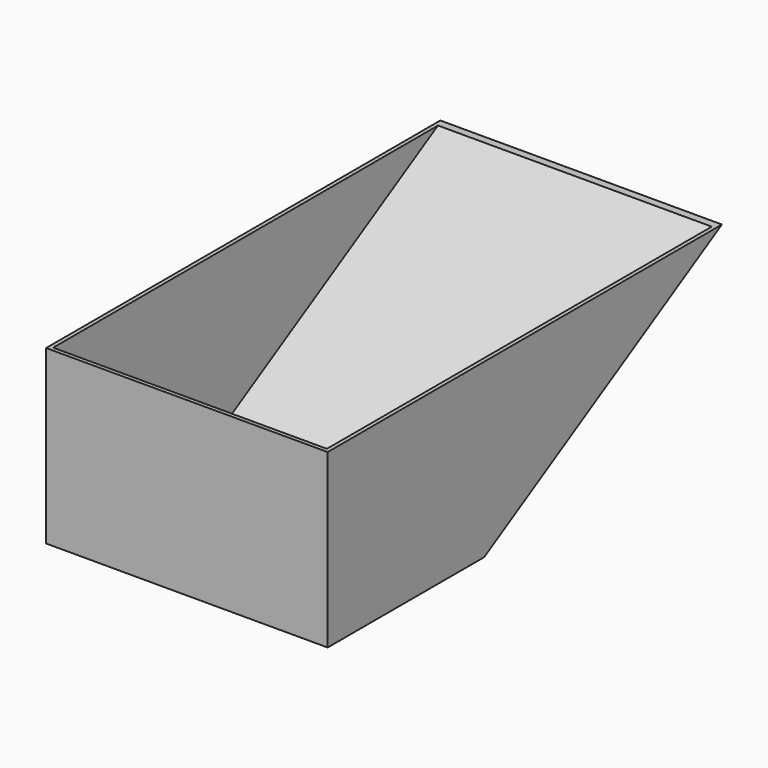
from build123d import *

# Parameters (mm, degrees)
F1_DEPTH = 457.2
F2_T     = -6.35


with BuildPart() as f1:
    # F0 (on Right) → F1 (new body)
    with BuildSketch(Plane.YZ):
        Polygon((0, 279.4), (0, 0), (317.5, 0), (800.1, 279.4), align=None)
    extrude(amount=F1_DEPTH)

    # F2
    f2_openings = [f1.faces().sort_by_distance(p)[0] for p in [
        (228.6, 400.05, 279.4),
    ]]
    offset(amount=F2_T, openings=f2_openings)


solid = f1.part
